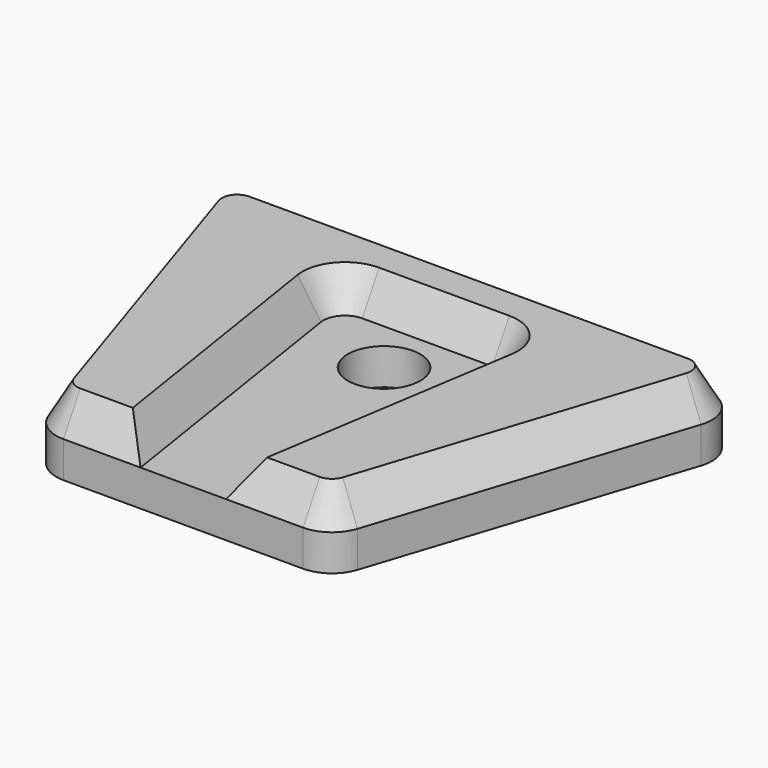
from build123d import *

# Parameters (mm, degrees)
F1_DEPTH = 6.35
F2_DEPTH = 6.35
F2_TAPER = 30
F3_R     = 6.35
F4_DEPTH = 25.4
F5_W     = 51.275
F5_H     = 51.275
F5_W_2   = 41.275
F5_H_2   = 41.275
F6_DEPTH = 2.54


with BuildPart() as f1:
    # F0 (on Top) → F1 (new body)
    with BuildSketch(Plane.XY):
        with BuildLine():
            Line((64.1179559298, 56.275), (25.6375, 56.275))
            Line((25.6375, 56.275), (-12.8429559298, 56.275))
            ThreePointArc((-12.8429559298, 56.275), (-17.9816380777, 53.6554752757), (-18.8806651275, 47.95813253))
            Line((-18.8806651275, 47.95813253), (-1.4278661837, -5.61686747))
            ThreePointArc((-1.4278661837, -5.61686747), (0.8793677383, -8.7886821479), (4.609843014, -10))
            Line((4.609843014, -10), (18.1375, -10))
            Line((18.1375, -10), (10.4500775472, 39.1765561679))
            ThreePointArc((10.4500775472, 39.1765561679), (11.3197051539, 42.2423099321), (14.2143615238, 43.575))
            Line((14.2143615238, 43.575), (37.0606384762, 43.575))
            ThreePointArc((37.0606384762, 43.575), (39.9552948461, 42.2423099321), (40.8249224528, 39.1765561679))
            Line((40.8249224528, 39.1765561679), (33.1375, -10))
            Line((33.1375, -10), (46.665156986, -10))
            ThreePointArc((46.665156986, -10), (50.3956322617, -8.7886821479), (52.7028661837, -5.61686747))
            Line((52.7028661837, -5.61686747), (70.1556651275, 47.95813253))
            ThreePointArc((70.1556651275, 47.95813253), (69.2566380777, 53.6554752757), (64.1179559298, 56.275))
        make_face()
        with BuildLine():
            Line((10.4500775472, 39.1765561679), (18.1375, -10))
            Line((18.1375, -10), (25.6375, -10))
            Line((25.6375, -10), (33.1375, -10))
            Line((33.1375, -10), (40.8249224528, 39.1765561679))
            ThreePointArc((40.8249224528, 39.1765561679), (39.9552948461, 42.2423099321), (37.0606384762, 43.575))
            Line((37.0606384762, 43.575), (14.2143615238, 43.575))
            ThreePointArc((14.2143615238, 43.575), (11.3197051539, 42.2423099321), (10.4500775472, 39.1765561679))
        make_face()
    extrude(amount=-F1_DEPTH)

    # F0 (on Top) → F2 (join)
    with BuildSketch(Plane.XY):
        with BuildLine():
            Line((64.1179559298, 56.275), (25.6375, 56.275))
            Line((25.6375, 56.275), (-12.8429559298, 56.275))
            ThreePointArc((-12.8429559298, 56.275), (-17.9816380777, 53.6554752757), (-18.8806651275, 47.95813253))
            Line((-18.8806651275, 47.95813253), (-1.4278661837, -5.61686747))
            ThreePointArc((-1.4278661837, -5.61686747), (0.8793677383, -8.7886821479), (4.609843014, -10))
            Line((4.609843014, -10), (18.1375, -10))
            Line((18.1375, -10), (10.4500775472, 39.1765561679))
            ThreePointArc((10.4500775472, 39.1765561679), (11.3197051539, 42.2423099321), (14.2143615238, 43.575))
            Line((14.2143615238, 43.575), (37.0606384762, 43.575))
            ThreePointArc((37.0606384762, 43.575), (39.9552948461, 42.2423099321), (40.8249224528, 39.1765561679))
            Line((40.8249224528, 39.1765561679), (33.1375, -10))
            Line((33.1375, -10), (46.665156986, -10))
            ThreePointArc((46.665156986, -10), (50.3956322617, -8.7886821479), (52.7028661837, -5.61686747))
            Line((52.7028661837, -5.61686747), (70.1556651275, 47.95813253))
            ThreePointArc((70.1556651275, 47.95813253), (69.2566380777, 53.6554752757), (64.1179559298, 56.275))
        make_face()
    extrude(amount=F2_DEPTH, taper=F2_TAPER)

    # F3 (on face) → F4 (cut)
    with BuildSketch(Plane.XY):
        with Locations((25.6375, 34.05)):
            Circle(F3_R)
    extrude(amount=-F4_DEPTH, mode=Mode.SUBTRACT)

    # F5 (on face) → F6 (cut)
    with BuildSketch(Plane(origin=(0, 0, -6.35), x_dir=(1, 0, 0), z_dir=(0, 0, -1))):
        with Locations((25.6375, -25.6375)):
            Rectangle(F5_W, F5_H)
        with Locations((25.6375, -25.6375)):
            Rectangle(F5_W_2, F5_H_2, mode=Mode.SUBTRACT)
    extrude(amount=-F6_DEPTH, mode=Mode.SUBTRACT)


solid = f1.part
